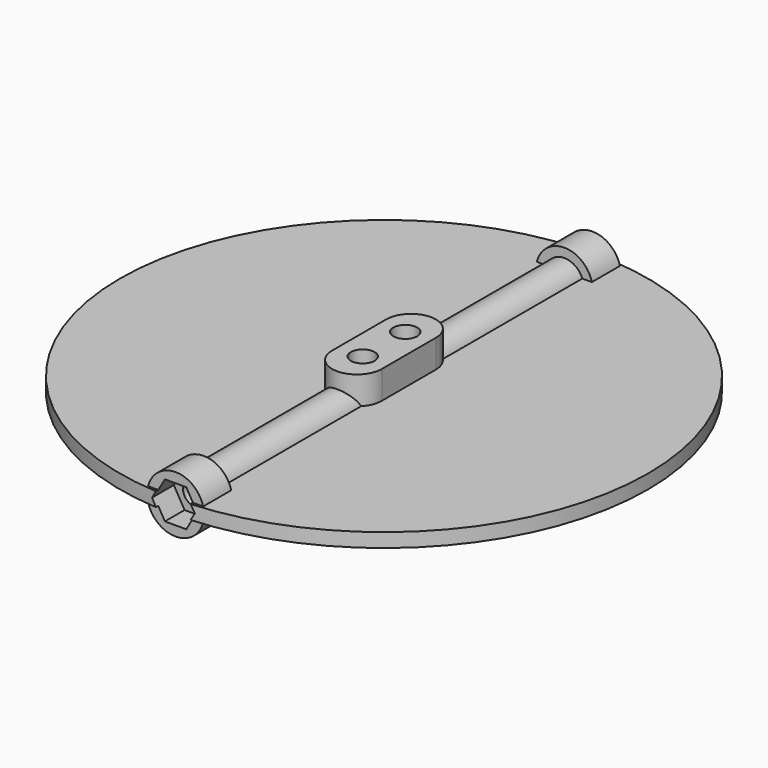
from build123d import *

# Parameters (mm, degrees)
SKETCH004_R             = 37.65
PAD002_DEPTH            = 2
SKETCH005_R             = 2.75
SKETCH005_R_2           = 1.75
PAD003_DEPTH            = 32.65
SKETCH007_R             = 4.05
PAD004_DEPTH            = 5
POCKET_DEPTH            = 4
PAD014_DEPTH            = 4
SKETCH006_R             = 1.75
POCKET003012_DEPTH      = 75.219717
SKETCH036_R             = 1.7
POCKET003013_DEPTH      = 5
BODY001_PLACEMENT_ANGLE = 90


with BuildPart() as part:
    # Sketch004 → Pad002 (new body)
    with BuildSketch(Plane.XY):
        Circle(SKETCH004_R)
    extrude(amount=PAD002_DEPTH)

    # Sketch005 → Pad003 (join, symmetric)
    with BuildSketch(Plane(origin=(0, 0, 1), x_dir=(0, 1, 0), z_dir=(1, 0, 0))):
        Circle(SKETCH005_R)
        Circle(SKETCH005_R_2, mode=Mode.SUBTRACT)
    extrude(amount=PAD003_DEPTH, both=True)

    # Sketch007 → Pad004 (join)
    with BuildSketch(Plane(origin=(37.15, 0, 1), x_dir=(0, 1, 0), z_dir=(1, 0, 0))):
        Circle(SKETCH007_R)
    pad004 = extrude(amount=-PAD004_DEPTH)

    # Mirrored: Pad004 across YZ
    add(pad004.mirror(Plane.YZ))

    # Sketch008 → Pocket (cut)
    with BuildSketch(Plane(origin=(37.65, 0, 1), x_dir=(0, 1, 0), z_dir=(1, 0, 0))):
        Polygon((1.525, -2.641377), (3.05, 0), (1.525, 2.641377), (-1.525, 2.641377), (-3.05, 0), (-1.525, -2.641377), align=None)
    pocket = extrude(amount=-POCKET_DEPTH, mode=Mode.SUBTRACT)

    # Mirrored001: Pocket across YZ
    add(pocket.mirror(Plane.YZ), mode=Mode.SUBTRACT)

    # Sketch035 → Pad014 (join)
    with BuildSketch(Plane.XY.offset(6)):
        with BuildLine():
            ThreePointArc((-4.82, 3.545), (-8.365, 0), (-4.82, -3.545))
            Line((-4.82, -3.545), (4.82, -3.545))
            ThreePointArc((4.82, -3.545), (8.365, 0), (4.82, 3.545))
            Line((4.82, 3.545), (-4.82, 3.545))
        make_face()
    extrude(amount=-PAD014_DEPTH)

    # Sketch006 → Pocket003012 (cut, through all)
    with BuildSketch(Plane(origin=(37.65, 0, 1), x_dir=(0, 1, 0), z_dir=(1, 0, 0))):
        Circle(SKETCH006_R)
    extrude(amount=-POCKET003012_DEPTH, mode=Mode.SUBTRACT)

    # Sketch036 → Pocket003013 (cut)
    with BuildSketch(Plane.XY.offset(6)):
        with Locations((-3.79, 0)):
            Circle(SKETCH036_R)
    pocket003013 = extrude(amount=-POCKET003013_DEPTH, mode=Mode.SUBTRACT)

    # Mirrored002: Pocket003013 across Sketch036 V_Axis
    add(pocket003013.mirror(Plane(origin=(0, 0, 6), x_dir=(0, 0, 1), z_dir=(1, 0, 0))), mode=Mode.SUBTRACT)


with BuildPart() as part_1:
    # Body001 placement: moved
    add(part.part.moved(Location((0, 0, 23))).rotate(Axis((0, 0, 23), (0, 0, 1)), BODY001_PLACEMENT_ANGLE))


solid = part_1.part
